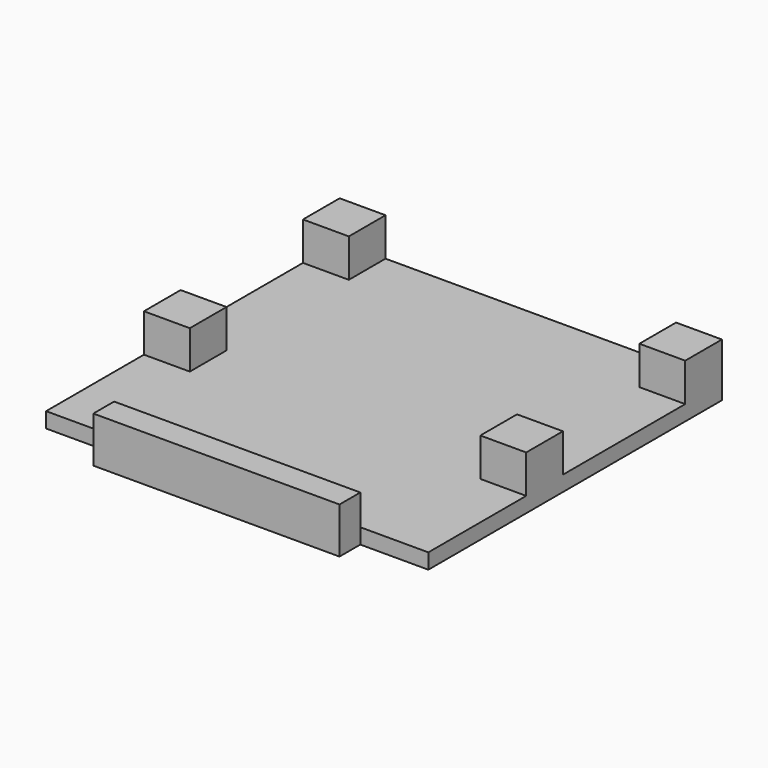
from build123d import *

# Parameters (mm, degrees)
F0_W     = 3
F0_H     = 3
F0_W_2   = 16.1
F0_H_2   = 1.7
F1_DEPTH = 1
F2_DEPTH = 2.5
F3_DEPTH = 2


with BuildPart() as f1:
    # F0 (on Top) → F1 (new body)
    with BuildSketch(Plane.XY):
        with Locations((-11, 10.5)):
            Rectangle(F0_W, F0_H)
        Polygon((9.5, 12), (-9.5, 12), (-9.5, 9), (-12.5, 9), (-12.5, -1), (-9.5, -1), (-9.5, -4), (-12.5, -4), (-12.5, -12), (-8.05, -12), (8.05, -12), (12.5, -12), (12.5, -4), (9.5, -4), (9.5, -1), (12.5, -1), (12.5, 9), (9.5, 9), align=None)
        with Locations((11, 10.5)):
            Rectangle(F0_W, F0_H)
        with Locations((11, -2.5)):
            Rectangle(F0_W, F0_H)
        with Locations((-11, -2.5)):
            Rectangle(F0_W, F0_H)
        with Locations((0, -12.85)):
            Rectangle(F0_W_2, F0_H_2)
    extrude(amount=-F1_DEPTH)

    # F0 (on Top) → F2 (join)
    with BuildSketch(Plane.XY):
        with Locations((-11, 10.5)):
            Rectangle(F0_W, F0_H)
        with Locations((11, 10.5)):
            Rectangle(F0_W, F0_H)
        with Locations((-11, -2.5)):
            Rectangle(F0_W, F0_H)
        with Locations((11, -2.5)):
            Rectangle(F0_W, F0_H)
    extrude(amount=F2_DEPTH)

    # F0 (on Top) → F3 (join)
    with BuildSketch(Plane.XY):
        with Locations((0, -12.85)):
            Rectangle(F0_W_2, F0_H_2)
    extrude(amount=F3_DEPTH)


solid = f1.part
